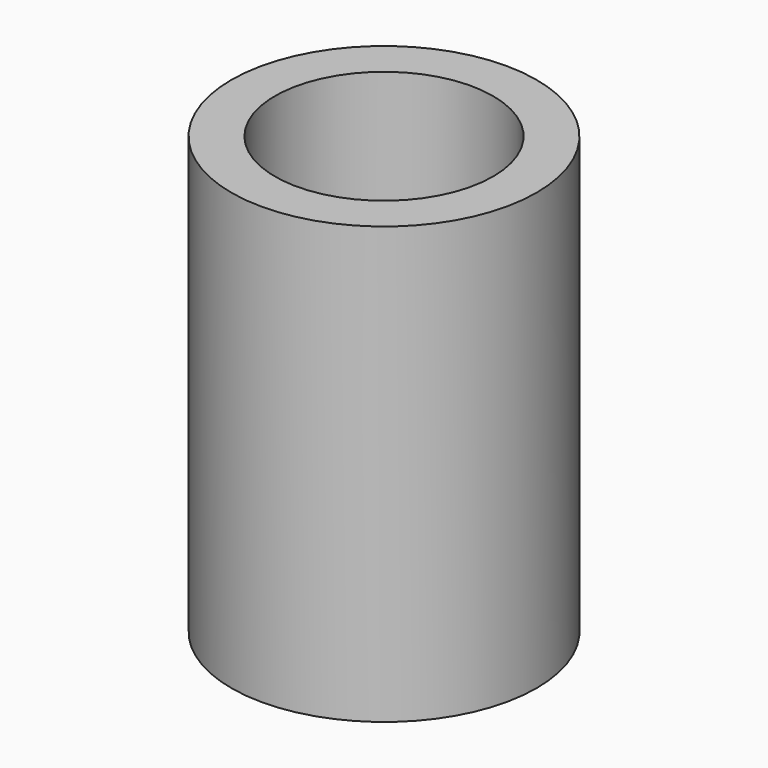
from build123d import *

# Parameters (mm, degrees)
CYLINDER001_R     = 9.525
CYLINDER001_DEPTH = 38.1
CYLINDER_R        = 13.335
CYLINDER_DEPTH    = 38.1


with BuildPart() as f_0_75_id:
    # Cylinder001 → Cylinder001 (new body)
    with BuildSketch(Plane.XY):
        Circle(CYLINDER001_R)
    extrude(amount=CYLINDER001_DEPTH)


with BuildPart() as f_0_75in_x_1_5in_npt_pipe:
    # Cylinder → Cylinder (new body)
    with BuildSketch(Plane.XY):
        Circle(CYLINDER_R)
    extrude(amount=CYLINDER_DEPTH)

    # Cut: cut 0.75 ID
    add(f_0_75_id.part, mode=Mode.SUBTRACT)


solid = f_0_75in_x_1_5in_npt_pipe.part
